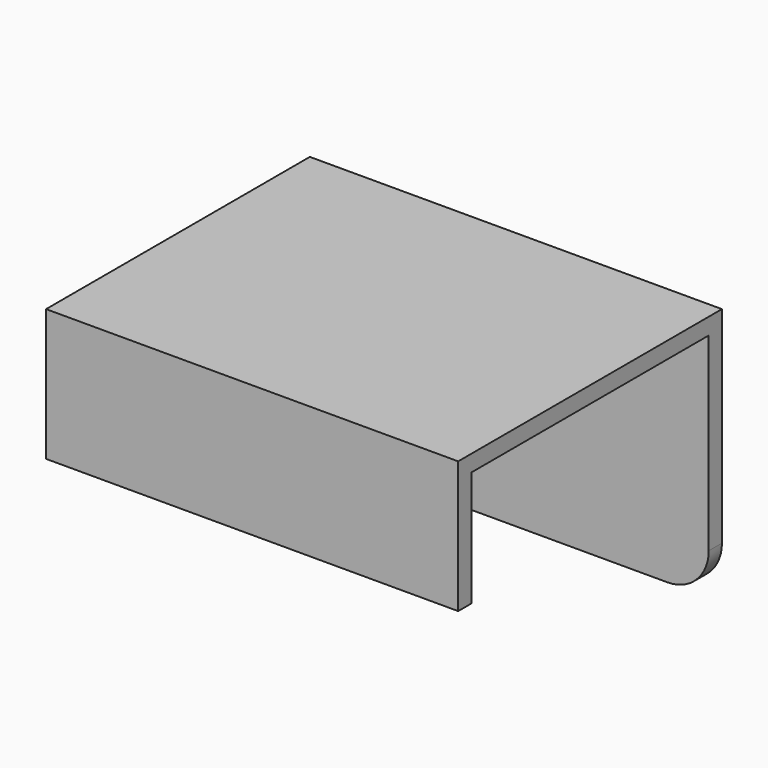
from build123d import *

# Parameters (mm, degrees)
F1_DEPTH = 50
F2_R     = 5


with BuildPart() as f1:
    # F0 (on Right) → F1 (new body)
    with BuildSketch(Plane.YZ):
        Polygon((-2, 0), (0, 0), (0, 14), (36, 14), (36, 16), (-2, 16), align=None)
        Polygon((36, 16), (36, 14), (36, -14), (38, -14), (38, 16), align=None)
    extrude(amount=F1_DEPTH)

    # F2
    f2_edges = [f1.edges().sort_by_distance(p)[0] for p in [
        (50, 37, -14),
        (0, 37, -14),
    ]]
    fillet(f2_edges, radius=F2_R)


solid = f1.part
